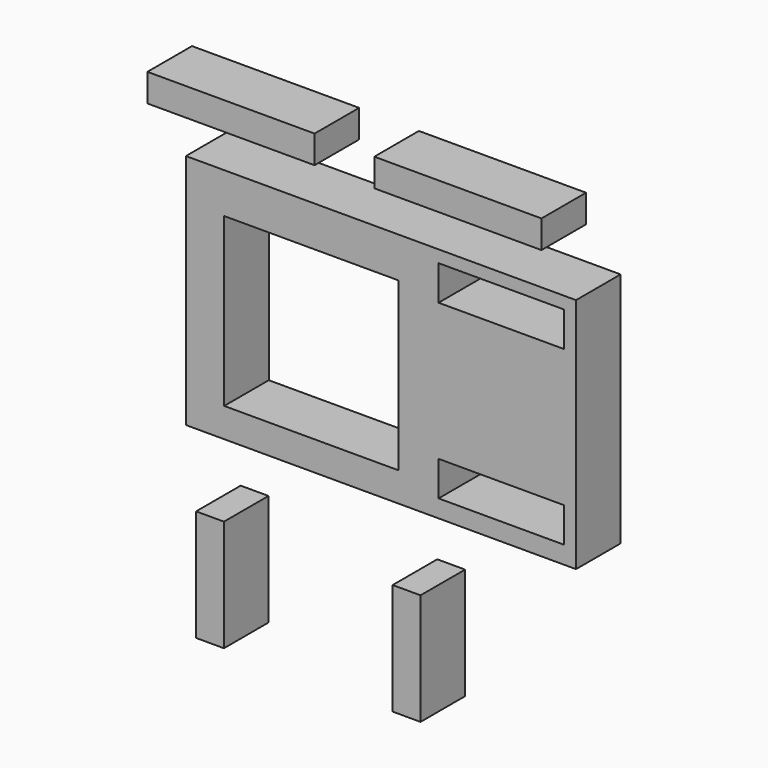
from build123d import *

# Parameters (mm, degrees)
F1_W     = 76.2
F1_H     = 12.7
F1_W_2   = 12.7
F1_H_2   = 50.8
F0_W     = 177.8
F0_H     = 107.95
F0_W_2   = 79.375
F0_H_2   = 76.2
F0_W_3   = 57.15
F0_H_3   = 15.875
F2_DEPTH = 25.4


with BuildPart() as f2:
    # F1 (on Front) + F0 (on Front) → F2 (new body)
    with BuildSketch(Plane.XZ):
        with Locations((-41.132783, 100.988894)):
            Rectangle(F1_W, F1_H)
        with Locations((62.2815, 100.570208)):
            Rectangle(F1_W, F1_H)
        with Locations((-50.692674, -87.208365)):
            Rectangle(F1_W_2, F1_H_2)
        with Locations((38.905129, -87.62705)):
            Rectangle(F1_W_2, F1_H_2)
    with BuildSketch(Plane.XZ):
        with Locations((27.224332, 25.286424)):
            Rectangle(F0_W, F0_H)
        with Locations((-4.534833, 22.762027)):
            Rectangle(F0_W_2, F0_H_2, mode=Mode.SUBTRACT)
        with Locations((82.057793, -12.729846)):
            Rectangle(F0_W_3, F0_H_3, mode=Mode.SUBTRACT)
        with Locations((82.057793, 65.789548)):
            Rectangle(F0_W_3, F0_H_3, mode=Mode.SUBTRACT)
    extrude(amount=F2_DEPTH)


solid = f2.part
